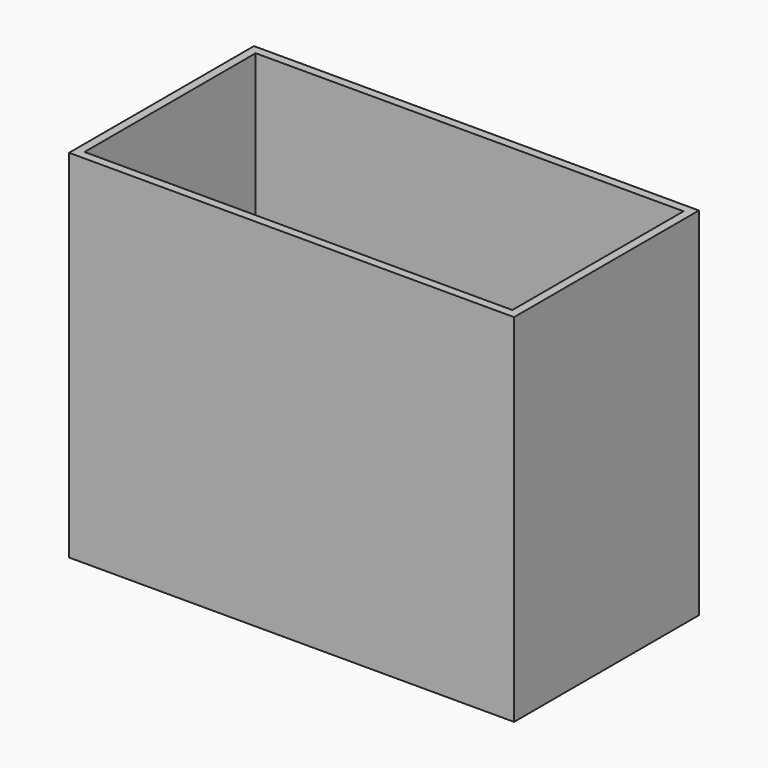
from build123d import *

# Parameters (mm, degrees)
F0_W     = 250
F0_H     = 125
F1_DEPTH = 203.2
F2_T     = 5


with BuildPart() as f1:
    # F0 (on Top) → F1 (new body)
    with BuildSketch(Plane.XY):
        Rectangle(F0_W, F0_H)
        Rectangle(F0_W, F0_H)
    extrude(amount=F1_DEPTH)

    # F2
    f2_openings = [f1.faces().sort_by_distance(p)[0] for p in [
        (0, 0, 203.2),
    ]]
    offset(amount=F2_T, openings=f2_openings, kind=Kind.INTERSECTION)


solid = f1.part
